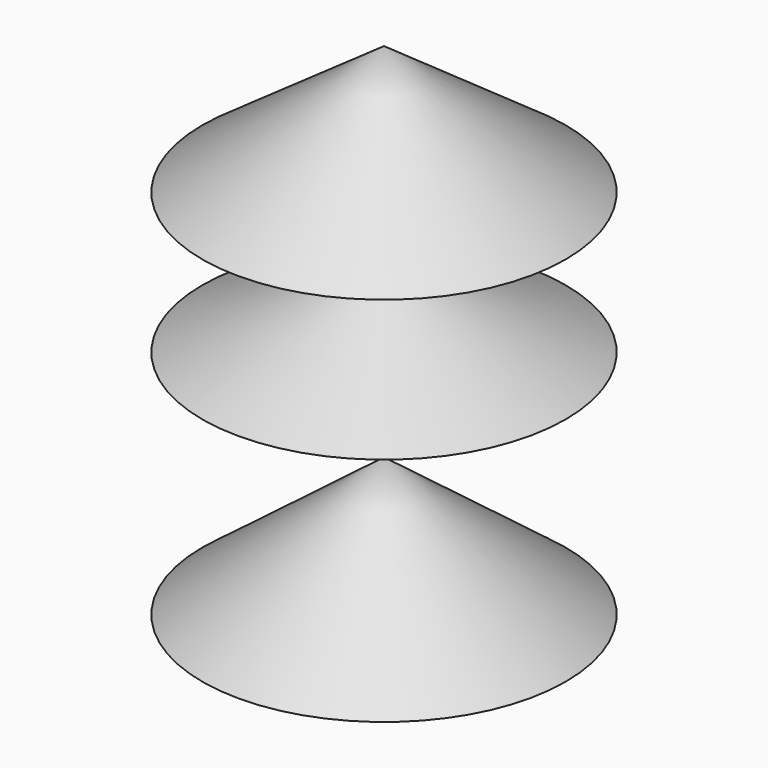
from build123d import *


with BuildPart() as f1:
    # F0 (on Front) → F1 (revolve)
    with BuildSketch(Plane.XZ):
        Polygon((-27.550071, 35.011549), (0, 21.006931), (0, 49.01617), align=None)
        Polygon((-27.550071, 0), (0, 0), (0, 21.006931), align=None)
        Polygon((-27.550071, 56.362856), (0, 49.01617), (0, 75.877488), align=None)
    revolve(axis=Axis((0, 0, 37.938744), (0, 0, -1)))


solid = f1.part
